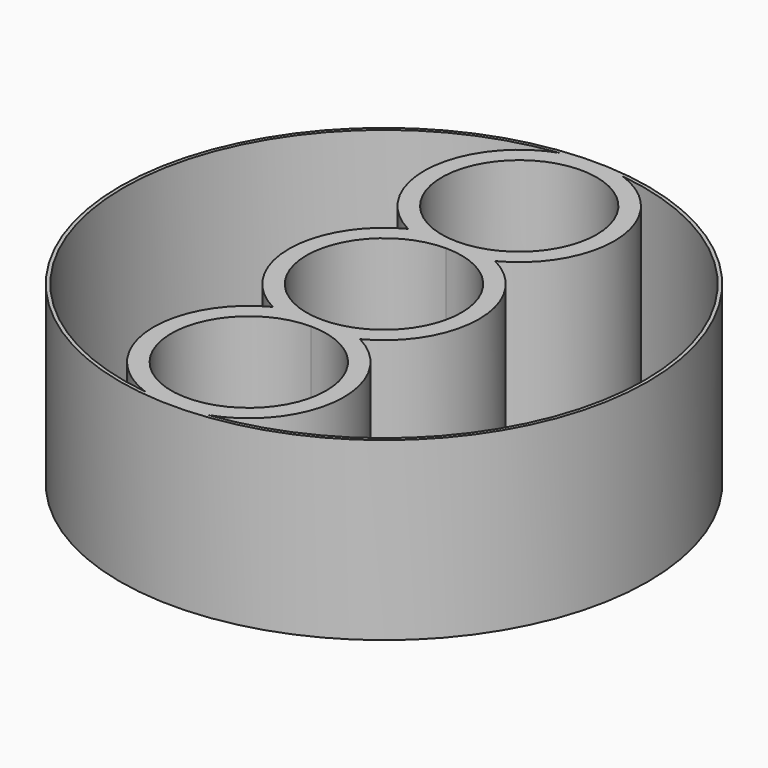
from build123d import *

# Parameters (mm, degrees)
F0_R     = 37.5
F1_DEPTH = 3
F2_DEPTH = 25


with BuildPart() as f1:
    # F0 (on Top) → F1 (new body)
    with BuildSketch(Plane.XY):
        with BuildLine():
            ThreePointArc((11, -24), (7.778175, -16.221825), (0, -13))
            ThreePointArc((0, -13), (-7.778175, -31.778175), (11, -24))
        make_face()
        with BuildLine():
            ThreePointArc((11, 24), (-7.778175, 31.778175), (0, 13))
            ThreePointArc((0, 13), (7.778175, 16.221825), (11, 24))
        make_face()
        Circle(F0_R)
        with BuildLine():
            ThreePointArc((11, -24), (-7.778175, -31.778175), (0, -13))
            ThreePointArc((0, -13), (7.778175, -16.221825), (11, -24))
        make_face(mode=Mode.SUBTRACT)
        with BuildLine():
            ThreePointArc((-4.511195, 36.723958), (-13.469182, 24.911673), (-6.184658, 12))
            ThreePointArc((-6.184658, 12), (-13.5, 0), (-6.184658, -12))
            ThreePointArc((-6.184658, -12), (-13.469182, -24.911673), (-4.511195, -36.723958))
            ThreePointArc((-4.511195, -36.723958), (-37, 0), (-4.511195, 36.723958))
        make_face(mode=Mode.SUBTRACT)
        with BuildLine():
            ThreePointArc((0, 11), (7.778175, 7.778175), (11, 0))
            ThreePointArc((11, 0), (7.778175, -7.778175), (0, -11))
            ThreePointArc((0, -11), (-11, 0), (0, 11))
        make_face(mode=Mode.SUBTRACT)
        with BuildLine():
            ThreePointArc((6.184658, -12), (13.5, 0), (6.184658, 12))
            ThreePointArc((6.184658, 12), (13.469182, 24.911673), (4.511195, 36.723958))
            ThreePointArc((4.511195, 36.723958), (37, 0), (4.511195, -36.723958))
            ThreePointArc((4.511195, -36.723958), (13.469182, -24.911673), (6.184658, -12))
        make_face(mode=Mode.SUBTRACT)
        with BuildLine():
            ThreePointArc((11, 24), (7.778175, 16.221825), (0, 13))
            ThreePointArc((0, 13), (-7.778175, 31.778175), (11, 24))
        make_face(mode=Mode.SUBTRACT)
    extrude(amount=F1_DEPTH)

    # F0 (on Top) → F2 (join)
    with BuildSketch(Plane.XY):
        with BuildLine():
            ThreePointArc((11, -24), (7.778175, -16.221825), (0, -13))
            ThreePointArc((0, -13), (-7.778175, -31.778175), (11, -24))
        make_face()
        with BuildLine():
            ThreePointArc((11, 24), (-7.778175, 31.778175), (0, 13))
            ThreePointArc((0, 13), (7.778175, 16.221825), (11, 24))
        make_face()
        Circle(F0_R)
        with BuildLine():
            ThreePointArc((11, -24), (-7.778175, -31.778175), (0, -13))
            ThreePointArc((0, -13), (7.778175, -16.221825), (11, -24))
        make_face(mode=Mode.SUBTRACT)
        with BuildLine():
            ThreePointArc((-4.511195, 36.723958), (-13.469182, 24.911673), (-6.184658, 12))
            ThreePointArc((-6.184658, 12), (-13.5, 0), (-6.184658, -12))
            ThreePointArc((-6.184658, -12), (-13.469182, -24.911673), (-4.511195, -36.723958))
            ThreePointArc((-4.511195, -36.723958), (-37, 0), (-4.511195, 36.723958))
        make_face(mode=Mode.SUBTRACT)
        with BuildLine():
            ThreePointArc((0, 11), (7.778175, 7.778175), (11, 0))
            ThreePointArc((11, 0), (7.778175, -7.778175), (0, -11))
            ThreePointArc((0, -11), (-11, 0), (0, 11))
        make_face(mode=Mode.SUBTRACT)
        with BuildLine():
            ThreePointArc((6.184658, -12), (13.5, 0), (6.184658, 12))
            ThreePointArc((6.184658, 12), (13.469182, 24.911673), (4.511195, 36.723958))
            ThreePointArc((4.511195, 36.723958), (37, 0), (4.511195, -36.723958))
            ThreePointArc((4.511195, -36.723958), (13.469182, -24.911673), (6.184658, -12))
        make_face(mode=Mode.SUBTRACT)
        with BuildLine():
            ThreePointArc((11, 24), (7.778175, 16.221825), (0, 13))
            ThreePointArc((0, 13), (-7.778175, 31.778175), (11, 24))
        make_face(mode=Mode.SUBTRACT)
    extrude(amount=F2_DEPTH)


solid = f1.part
